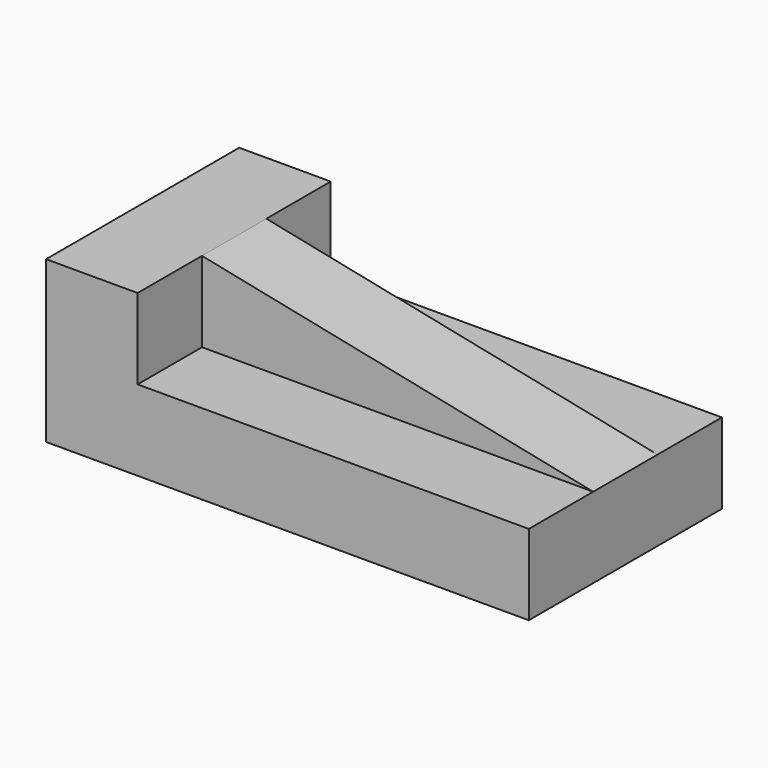
from build123d import *

# Parameters (mm, degrees)
F1_DEPTH = 76.2
F3_DEPTH = 76.2
F5_DEPTH = 25.4
F7_DEPTH = 25.4


with BuildPart() as f1:
    # F0 (on Front) → F1 (new body)
    with BuildSketch(Plane.XZ):
        Polygon((0, 50.8), (0, 0), (152.4, 0), (152.4, 25.4), (28.901575, 25.4), (28.901575, 50.8), align=None)
    extrude(amount=-F1_DEPTH)

    # F2 (on face) → F3 (join)
    with BuildSketch(Plane.XZ):
        Polygon((152.4, 25.4), (28.901575, 50.8), (28.901575, 25.4), align=None)
    extrude(amount=-F3_DEPTH)

    # F4 (on face) → F5 (cut)
    with BuildSketch(Plane.XZ):
        Polygon((152.4, 25.4), (28.901575, 50.8), (28.901575, 25.4), align=None)
    extrude(amount=-F5_DEPTH, mode=Mode.SUBTRACT)

    # F6 (on face) → F7 (cut)
    with BuildSketch(Plane(origin=(0, 76.2, 0), x_dir=(-1, 0, 0), z_dir=(0, 1, 0))):
        Polygon((-28.901575, 50.8), (-152.4, 25.4), (-28.901575, 25.4), align=None)
    extrude(amount=-F7_DEPTH, mode=Mode.SUBTRACT)


solid = f1.part
